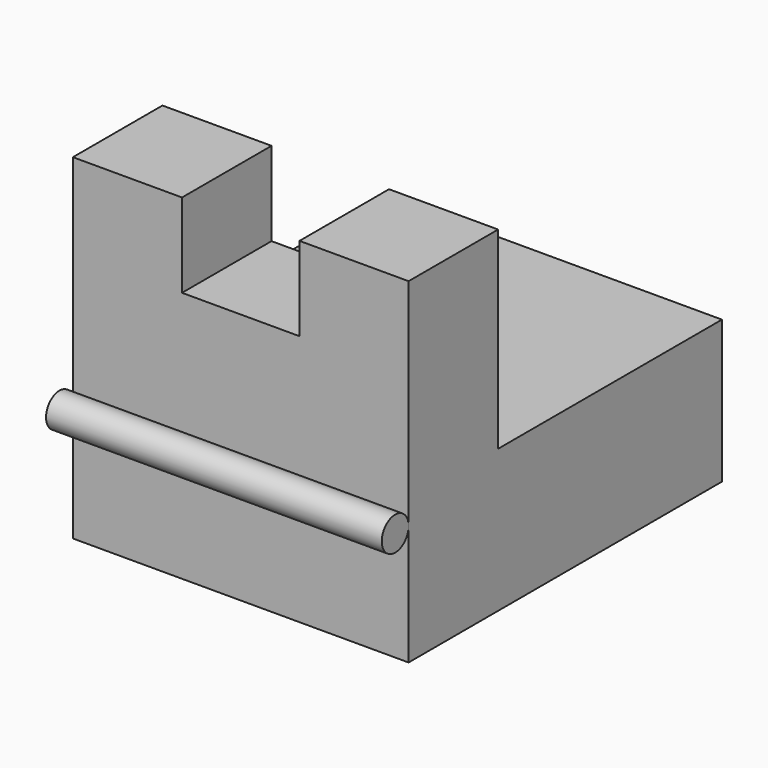
from build123d import *

# Parameters (mm, degrees)
F0_W     = 1524
F0_H     = 1524
F1_DEPTH = 508
F2_W     = 533.4
F2_H     = 381
F3_DEPTH = 508.001
F4_W     = 1270
F4_H     = 647.7
F5_DEPTH = 1524
F6_R     = 76.2
F7_DEPTH = 1524


with BuildPart() as f1:
    # F0 (on Front) → F1 (new body)
    with BuildSketch(Plane.XZ):
        Rectangle(F0_W, F0_H)
    extrude(amount=F1_DEPTH)

    # F2 (on face) → F3 (cut, through all)
    with BuildSketch(Plane.XZ.offset(508)):
        with Locations((0, 571.5)):
            Rectangle(F2_W, F2_H)
    extrude(amount=-F3_DEPTH, mode=Mode.SUBTRACT)

    # F4 (on face) → F5 (join, through all)
    with BuildSketch(Plane.YZ.offset(762)):
        with Locations((635, -438.15)):
            Rectangle(F4_W, F4_H)
    extrude(amount=-F5_DEPTH)

    # F6 (on face) → F7 (join, through all)
    with BuildSketch(Plane.YZ.offset(762)):
        with Locations((-584.2, -215.9)):
            Circle(F6_R)
    extrude(amount=-F7_DEPTH)


solid = f1.part
